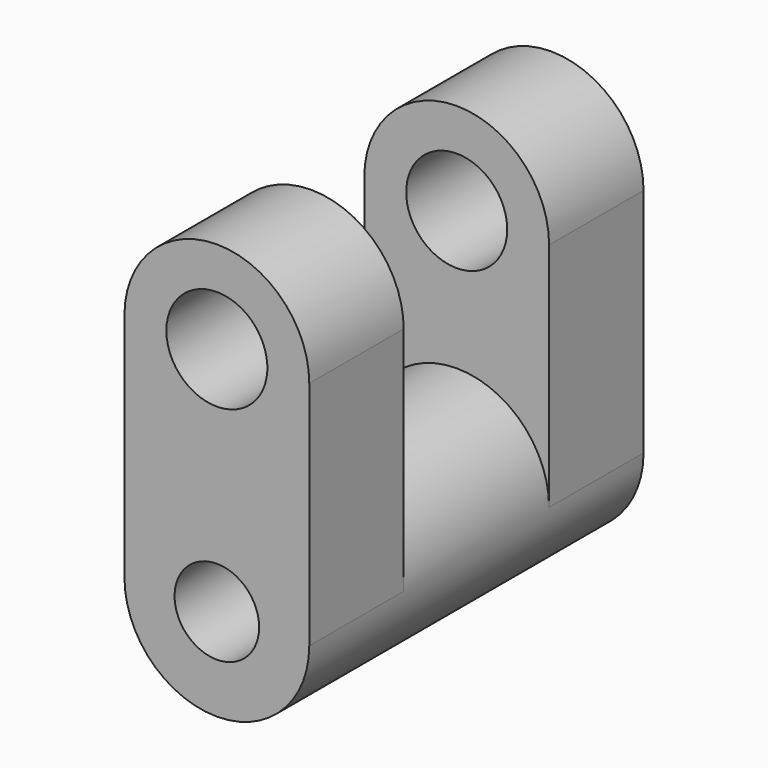
from build123d import *

# Parameters (mm, degrees)
F0_R     = 39.76573
F0_R_2   = 18.191508
F1_DEPTH = 179.832
F4_DEPTH = 50.8
F5_DEPTH = 50.8


with BuildPart() as f1:
    # F0 (on Front) → F1 (new body)
    with BuildSketch(Plane.XZ):
        Circle(F0_R)
        Circle(F0_R_2, mode=Mode.SUBTRACT)
    extrude(amount=F1_DEPTH)

    # F3 (on face) → F4 (join)
    with BuildSketch(Plane(origin=(0, 0, 0), x_dir=(-1, 0, 0), z_dir=(0, 1, 0))):
        with BuildLine():
            Line((-39.76573, 99.41814), (-39.76573, 0))
            ThreePointArc((-39.76573, 0), (0, 39.76573), (39.76573, 0))
            Line((39.76573, 0), (39.76573, 99.41814))
            Line((39.76573, 99.41814), (21.730875, 99.41814))
            ThreePointArc((21.730875, 99.41814), (0, 77.687265), (-21.730875, 99.41814))
            Line((-21.730875, 99.41814), (-39.76573, 99.41814))
        make_face()
        with BuildLine():
            ThreePointArc((39.76573, 99.41814), (0, 139.18387), (-39.76573, 99.41814))
            Line((-39.76573, 99.41814), (-21.730875, 99.41814))
            ThreePointArc((-21.730875, 99.41814), (0, 121.149015), (21.730875, 99.41814))
            Line((21.730875, 99.41814), (39.76573, 99.41814))
        make_face()
    extrude(amount=-F4_DEPTH)

    # F2 (on face) → F5 (join)
    with BuildSketch(Plane.XZ.offset(179.832)):
        with BuildLine():
            Line((-39.76573, 99.418327), (-39.76573, 0))
            ThreePointArc((-39.76573, 0), (0, 39.76573), (39.76573, 0))
            Line((39.76573, 0), (39.76573, 99.418327))
            Line((39.76573, 99.418327), (21.730875, 99.418327))
            ThreePointArc((21.730875, 99.418327), (0, 77.687452), (-21.730875, 99.418327))
            Line((-21.730875, 99.418327), (-39.76573, 99.418327))
        make_face()
        with BuildLine():
            ThreePointArc((39.76573, 99.418327), (0, 139.184057), (-39.76573, 99.418327))
            Line((-39.76573, 99.418327), (-21.730875, 99.418327))
            ThreePointArc((-21.730875, 99.418327), (0, 121.149202), (21.730875, 99.418327))
            Line((21.730875, 99.418327), (39.76573, 99.418327))
        make_face()
    extrude(amount=-F5_DEPTH)


solid = f1.part
